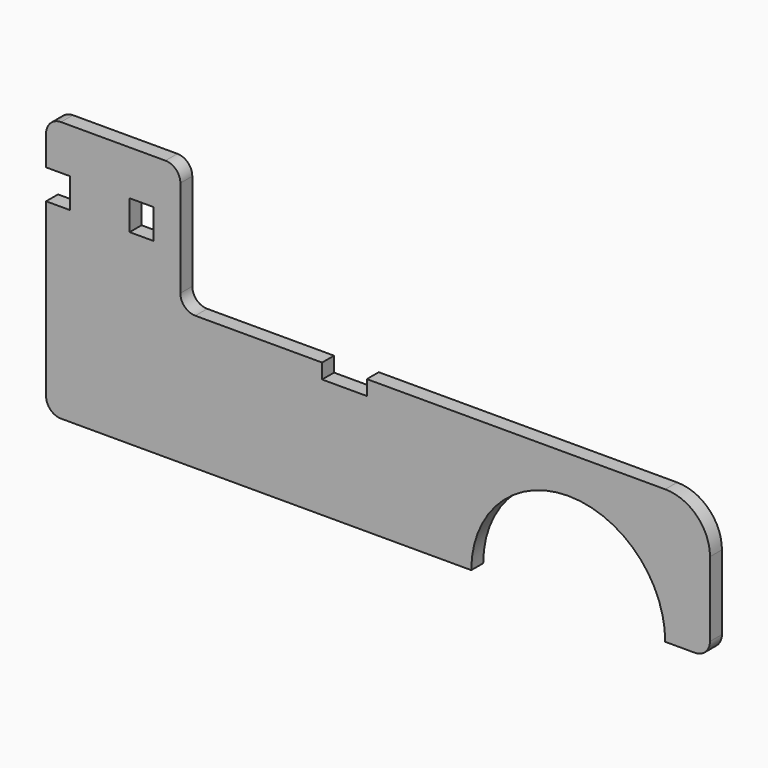
from build123d import *

# Parameters (mm, degrees)
F0_W     = 8
F0_H     = 10
F1_DEPTH = 5


with BuildPart() as f1:
    # F0 (on Front) → F1 (new body)
    with BuildSketch(Plane.XZ):
        with BuildLine():
            ThreePointArc((-32.5, 0), (0, 32.5), (32.5, 0))
            Line((32.5, 0), (42.5, 0))
            ThreePointArc((42.5, 0), (46.035534, 1.464466), (47.5, 5))
            Line((47.5, 5), (47.5, 30))
            ThreePointArc((47.5, 30), (43.106602, 40.606602), (32.5, 45))
            Line((32.5, 45), (-67.5, 45))
            Line((-67.5, 45), (-67.5, 40))
            Line((-67.5, 40), (-82.5, 40))
            Line((-82.5, 40), (-82.5, 45))
            Line((-82.5, 45), (-125, 45))
            ThreePointArc((-125, 45), (-128.535534, 46.464466), (-130, 50))
            Line((-130, 50), (-130, 82.5))
            ThreePointArc((-130, 82.5), (-131.464466, 86.035534), (-135, 87.5))
            Line((-135, 87.5), (-170, 87.5))
            ThreePointArc((-170, 87.5), (-173.535534, 86.035534), (-175, 82.5))
            Line((-175, 82.5), (-175, 72.5))
            Line((-175, 72.5), (-167, 72.5))
            Line((-167, 72.5), (-167, 62.5))
            Line((-167, 62.5), (-175, 62.5))
            Line((-175, 62.5), (-175, 5))
            ThreePointArc((-175, 5), (-173.535534, 1.464466), (-170, 0))
            Line((-170, 0), (-32.5, 0))
        make_face()
        with Locations((-143, 67.5)):
            Rectangle(F0_W, F0_H, mode=Mode.SUBTRACT)
    extrude(amount=F1_DEPTH)


solid = f1.part
